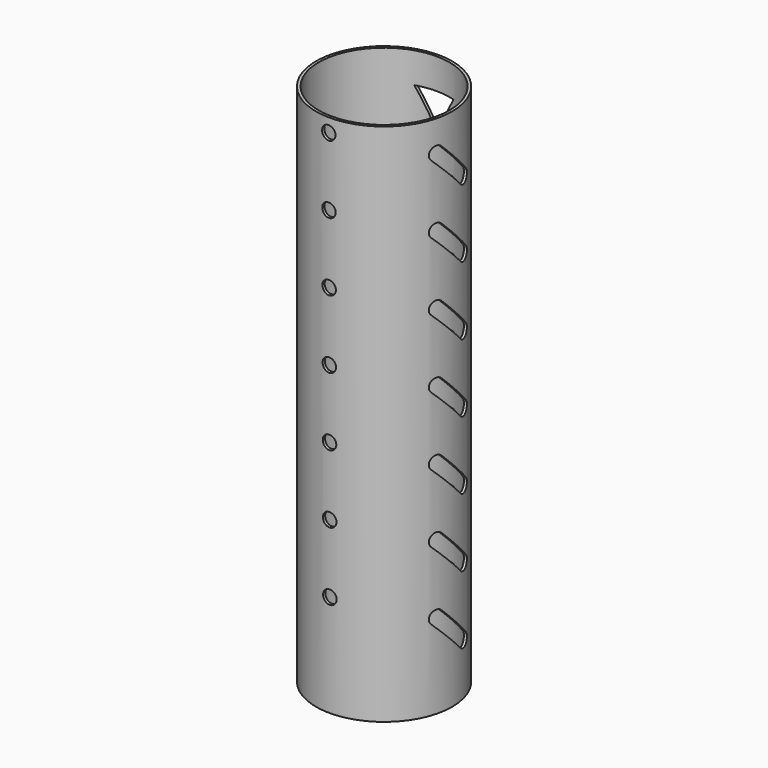
from build123d import *

# Parameters (mm, degrees)
F0_R      = 10
F0_R_2    = 9.59
F1_DEPTH  = 77
F3_R      = 1
F4_DEPTH  = 10
F7_DEPTH  = 10
F10_DEPTH = 10


with BuildPart() as f1:
    # F0 (on Top) → F1 (new body)
    with BuildSketch(Plane.XY):
        Circle(F0_R)
        Circle(F0_R_2, mode=Mode.SUBTRACT)
    extrude(amount=F1_DEPTH)

    # F3 (on offset) → F4 (cut)
    with BuildSketch(Plane.XZ.offset(10)):
        with Locations((0, 15)):
            Circle(F3_R)
        with Locations((-0.026574, 24.999965)):
            Circle(F3_R)
        with Locations((-0.053149, 34.999929)):
            Circle(F3_R)
        with Locations((-0.079723, 44.999894)):
            Circle(F3_R)
        with Locations((-0.106297, 54.999859)):
            Circle(F3_R)
        with Locations((-0.132872, 64.999823)):
            Circle(F3_R)
        with Locations((-0.159446, 74.999788)):
            Circle(F3_R)
    extrude(amount=-F4_DEPTH, mode=Mode.SUBTRACT)

    # F6 (on offset) → F7 (cut)
    with BuildSketch(Plane.YZ.offset(10)):
        with BuildLine():
            ThreePointArc((-1.792893, 13.207107), (-3.207107, 13.207107), (-3.207107, 11.792893))
            Line((-3.207107, 11.792893), (1.792893, 6.792893))
            ThreePointArc((1.792893, 6.792893), (3.207107, 6.792893), (3.207107, 8.207107))
            Line((3.207107, 8.207107), (-1.792893, 13.207107))
        make_face()
        with BuildLine():
            ThreePointArc((-1.792893, 23.207107), (-3.207107, 23.207107), (-3.207107, 21.792893))
            Line((-3.207107, 21.792893), (1.792893, 16.792893))
            ThreePointArc((1.792893, 16.792893), (3.207107, 16.792893), (3.207107, 18.207107))
            Line((3.207107, 18.207107), (-1.792893, 23.207107))
        make_face()
        with BuildLine():
            ThreePointArc((-1.792893, 33.207107), (-3.207107, 33.207107), (-3.207107, 31.792893))
            Line((-3.207107, 31.792893), (1.792893, 26.792893))
            ThreePointArc((1.792893, 26.792893), (3.207107, 26.792893), (3.207107, 28.207107))
            Line((3.207107, 28.207107), (-1.792893, 33.207107))
        make_face()
        with BuildLine():
            ThreePointArc((-1.792893, 43.207107), (-3.207107, 43.207107), (-3.207107, 41.792893))
            Line((-3.207107, 41.792893), (1.792893, 36.792893))
            ThreePointArc((1.792893, 36.792893), (3.207107, 36.792893), (3.207107, 38.207107))
            Line((3.207107, 38.207107), (-1.792893, 43.207107))
        make_face()
        with BuildLine():
            ThreePointArc((-1.792893, 53.207107), (-3.207107, 53.207107), (-3.207107, 51.792893))
            Line((-3.207107, 51.792893), (1.792893, 46.792893))
            ThreePointArc((1.792893, 46.792893), (3.207107, 46.792893), (3.207107, 48.207107))
            Line((3.207107, 48.207107), (-1.792893, 53.207107))
        make_face()
        with BuildLine():
            ThreePointArc((-1.792893, 63.207107), (-3.207107, 63.207107), (-3.207107, 61.792893))
            Line((-3.207107, 61.792893), (1.792893, 56.792893))
            ThreePointArc((1.792893, 56.792893), (3.207107, 56.792893), (3.207107, 58.207107))
            Line((3.207107, 58.207107), (-1.792893, 63.207107))
        make_face()
        with BuildLine():
            ThreePointArc((-1.792893, 73.207107), (-3.207107, 73.207107), (-3.207107, 71.792893))
            Line((-3.207107, 71.792893), (1.792893, 66.792893))
            ThreePointArc((1.792893, 66.792893), (3.207107, 66.792893), (3.207107, 68.207107))
            Line((3.207107, 68.207107), (-1.792893, 73.207107))
        make_face()
    extrude(amount=-F7_DEPTH, mode=Mode.SUBTRACT)

    # F9 (on offset) → F10 (cut)
    with BuildSketch(Plane.XZ.offset(-10)):
        Polygon((2.886751, 12.5), (-2.886751, 12.5), (0, 7.5), align=None)
        Polygon((-2.886751, 22.5), (0, 17.5), (2.886751, 22.5), align=None)
        Polygon((-2.886751, 32.5), (0, 27.5), (2.886751, 32.5), align=None)
        Polygon((-2.886751, 42.5), (0, 37.5), (2.886751, 42.5), align=None)
        Polygon((-2.886751, 52.5), (0, 47.5), (2.886751, 52.5), align=None)
        Polygon((-2.886751, 62.5), (0, 57.5), (2.886751, 62.5), align=None)
        Polygon((-2.886751, 72.5), (0, 67.5), (2.886751, 72.5), align=None)
    extrude(amount=F10_DEPTH, mode=Mode.SUBTRACT)


solid = f1.part
